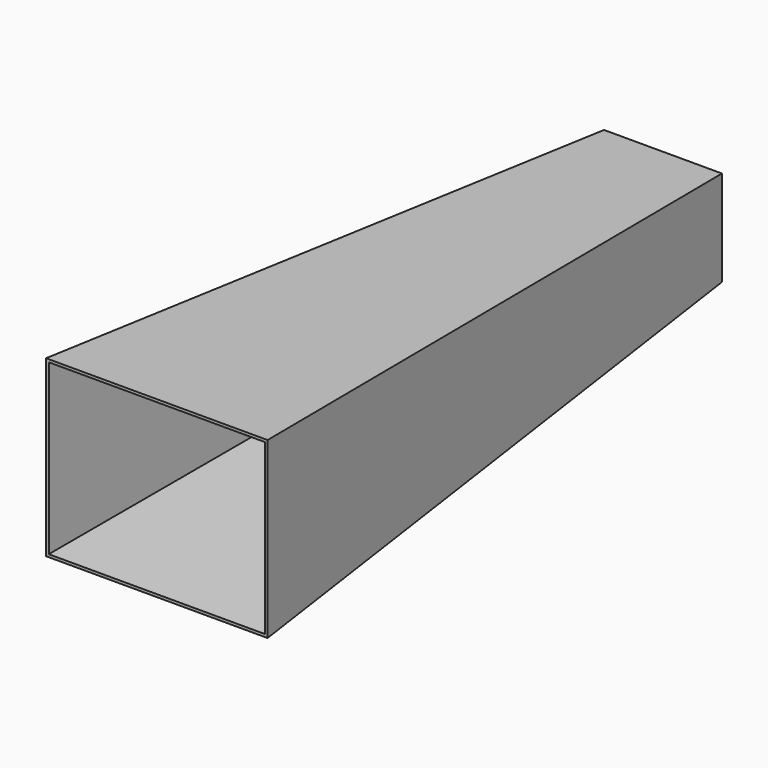
from build123d import *

# Parameters (mm, degrees)
F0_W = 89.916
F0_H = 65.786
F2_W = 174.625
F2_H = 136.525
F5_W = 178.943
F5_H = 140.843
F4_W = 95.25
F4_H = 77.216


with BuildPart() as f3:
    # F0 (on Front) → F3 section 0
    with BuildSketch(Plane.XZ):
        Rectangle(F0_W, F0_H)
    # F2 (on offset) → F3 section 1
    with BuildSketch(Plane.XZ.offset(511.175)):
        Rectangle(F2_W, F2_H)
    loft()

    # F5 (on offset) → F6 section 0
    with BuildSketch(Plane.XZ.offset(511.175)):
        Rectangle(F5_W, F5_H)
    # F4 (on Front) → F6 section 1
    with BuildSketch(Plane.XZ):
        Rectangle(F4_W, F4_H)
    loft()

    # F2 (on offset) → F7 section 0
    with BuildSketch(Plane.XZ.offset(511.175)):
        Rectangle(F2_W, F2_H)
    # F0 (on Front) → F7 section 1
    with BuildSketch(Plane.XZ):
        Rectangle(F0_W, F0_H)
    loft(mode=Mode.SUBTRACT)


solid = f3.part
